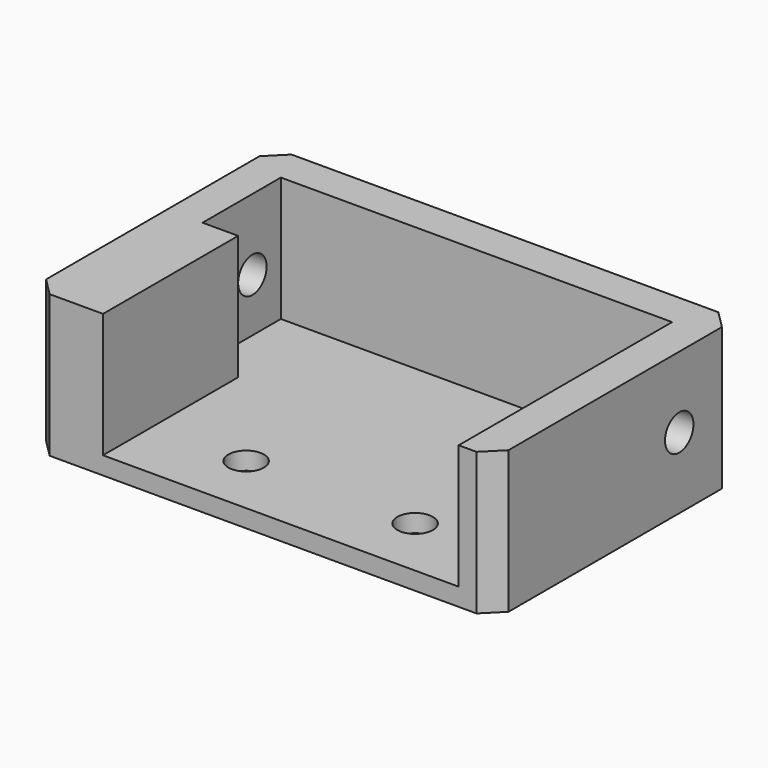
from build123d import *

# Parameters (mm, degrees)
F0_R     = 1
F1_DEPTH = 1
F2_DEPTH = 8
F3_DEPTH = 10
F4_R     = 1
F5_DEPTH = 30
F6_SIZE  = 1


with BuildPart() as f1:
    # F0 (on Top) → F1 (new body)
    with BuildSketch(Plane.XY):
        Polygon((-10, 9.5), (-10, 0), (10, 0), (10, 9.5), (10, 15), (-12, 15), (-12, 9.5), align=None)
        with Locations((-4.75, 3.5)):
            Circle(F0_R, mode=Mode.SUBTRACT)
        with Locations((4.75, 3.5)):
            Circle(F0_R, mode=Mode.SUBTRACT)
        with Locations((-4.75, 3.5)):
            Circle(F0_R)
        with Locations((4.75, 3.5)):
            Circle(F0_R)
        Polygon((-14, 0), (-10, 0), (-10, 9.5), (-12, 9.5), (-12, 15), (10, 15), (10, 9.5), (10, 0), (12, 0), (12, 17), (-14, 17), align=None)
    extrude(amount=F1_DEPTH)

    # F0 (on Top) → F2 (join)
    with BuildSketch(Plane.XY):
        Polygon((-14, 0), (-10, 0), (-10, 9.5), (-12, 9.5), (-12, 15), (10, 15), (10, 9.5), (10, 0), (12, 0), (12, 17), (-14, 17), align=None)
        with Locations((-4.75, 3.5)):
            Circle(F0_R)
        with Locations((4.75, 3.5)):
            Circle(F0_R)
    extrude(amount=F2_DEPTH)

    # F3 (cut): faces of the model
    f3_faces = [f1.faces().sort_by_distance(p)[0] for p in [
        (-4.75, 3.5, 8),
        (4.75, 3.5, 8),
    ]]
    extrude(f3_faces, amount=-F3_DEPTH, mode=Mode.SUBTRACT)

    # F4 (on face) → F5 (cut)
    with BuildSketch(Plane.YZ.offset(12)):
        with Locations((13, 4)):
            Circle(F4_R)
    extrude(amount=-F5_DEPTH, mode=Mode.SUBTRACT)

    # F6
    f6_edges = [f1.edges().sort_by_distance(p)[0] for p in [
        (-14, 17, 4),
        (12, 17, 4),
        (-14, 0, 4),
        (12, 0, 4),
    ]]
    chamfer(f6_edges, length=F6_SIZE)


solid = f1.part
